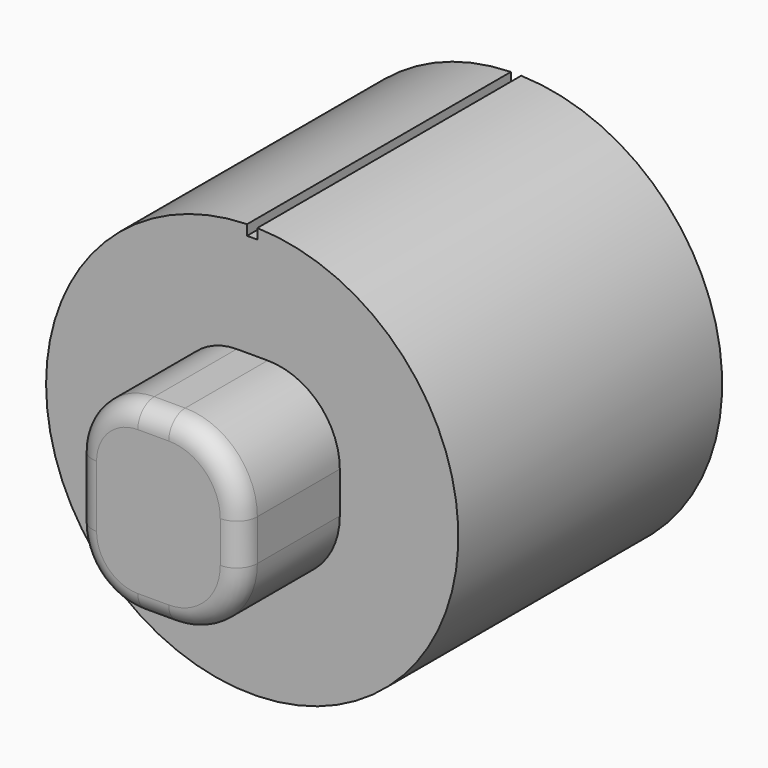
from build123d import *

# Parameters (mm, degrees)
F1_DEPTH = 6
F2_R     = 1
F3_R     = 10
F4_DEPTH = 16
F6_DEPTH = 25


with BuildPart() as f1:
    # F0 (on Front) → F1 (new body)
    with BuildSketch(Plane.XZ):
        with BuildLine():
            Line((0.9983844832, 7.6002832444), (-0.5016155168, 7.6002832444))
            ThreePointArc((-0.5016155168, 7.6002832444), (-2.6229358604, 6.7216035879), (-3.5016155168, 4.6002832444))
            Line((-3.5016155168, 4.6002832444), (-3.5016155168, 1.6002832444))
            ThreePointArc((-3.5016155168, 1.6002832444), (-2.6229358604, -0.5210370992), (-0.5016155168, -1.3997167556))
            Line((-0.5016155168, -1.3997167556), (0.9983844832, -1.3997167556))
            ThreePointArc((0.9983844832, -1.3997167556), (3.4732582173, -0.3745904898), (4.4983844832, 2.1002832444))
            Line((4.4983844832, 2.1002832444), (4.4983844832, 4.1002832444))
            ThreePointArc((4.4983844832, 4.1002832444), (3.4732582173, 6.5751569785), (0.9983844832, 7.6002832444))
        make_face()
    extrude(amount=F1_DEPTH)

    # F2
    f2_edges = [f1.edges().sort_by_distance(p)[0] for p in [
        (3.473258, -6, 6.575157),
        (0.248384, -6, 7.600283),
        (-2.622936, -6, 6.721604),
        (-3.501616, -6, 3.100283),
        (-2.622936, -6, -0.521037),
        (0.248384, -6, -1.399717),
        (3.473258, -6, -0.37459),
        (4.498384, -6, 3.100283),
    ]]
    fillet(f2_edges, radius=F2_R)

    # F3 (on face) → F4 (join)
    with BuildSketch(Plane(origin=(0, 0, 0), x_dir=(-1, 0, 0), z_dir=(0, 1, 0))):
        with Locations((-0.2483844832, 3.1002832444)):
            Circle(F3_R)
        with BuildLine():
            Line((3.5016155168, 4.6002832444), (3.5016155168, 3.1002832444))
            Line((3.5016155168, 3.1002832444), (3.5016155168, 1.6002832444))
            ThreePointArc((3.5016155168, 1.6002832444), (2.6229358604, -0.5210370992), (0.5016155168, -1.3997167556))
            Line((0.5016155168, -1.3997167556), (-0.2483844832, -1.3997167556))
            Line((-0.2483844832, -1.3997167556), (-0.9983844832, -1.3997167556))
            ThreePointArc((-0.9983844832, -1.3997167556), (-3.4732582173, -0.3745904898), (-4.4983844832, 2.1002832444))
            Line((-4.4983844832, 2.1002832444), (-4.4983844832, 3.1002832444))
            Line((-4.4983844832, 3.1002832444), (-4.4983844832, 4.1002832444))
            ThreePointArc((-4.4983844832, 4.1002832444), (-3.4732582173, 6.5751569785), (-0.9983844832, 7.6002832444))
            Line((-0.9983844832, 7.6002832444), (-0.2483844832, 7.6002832444))
            Line((-0.2483844832, 7.6002832444), (0.5016155168, 7.6002832444))
            ThreePointArc((0.5016155168, 7.6002832444), (2.6229358604, 6.7216035879), (3.5016155168, 4.6002832444))
        make_face(mode=Mode.SUBTRACT)
        with Locations((-0.2483844832, 3.1002832444)):
            Circle(F3_R)
        with BuildLine():
            Line((3.5016155168, 4.6002832444), (3.5016155168, 3.1002832444))
            Line((3.5016155168, 3.1002832444), (3.5016155168, 1.6002832444))
            ThreePointArc((3.5016155168, 1.6002832444), (2.6229358604, -0.5210370992), (0.5016155168, -1.3997167556))
            Line((0.5016155168, -1.3997167556), (-0.2483844832, -1.3997167556))
            Line((-0.2483844832, -1.3997167556), (-0.9983844832, -1.3997167556))
            ThreePointArc((-0.9983844832, -1.3997167556), (-3.4732582173, -0.3745904898), (-4.4983844832, 2.1002832444))
            Line((-4.4983844832, 2.1002832444), (-4.4983844832, 3.1002832444))
            Line((-4.4983844832, 3.1002832444), (-4.4983844832, 4.1002832444))
            ThreePointArc((-4.4983844832, 4.1002832444), (-3.4732582173, 6.5751569785), (-0.9983844832, 7.6002832444))
            Line((-0.9983844832, 7.6002832444), (-0.2483844832, 7.6002832444))
            Line((-0.2483844832, 7.6002832444), (0.5016155168, 7.6002832444))
            ThreePointArc((0.5016155168, 7.6002832444), (2.6229358604, 6.7216035879), (3.5016155168, 4.6002832444))
        make_face(mode=Mode.SUBTRACT)
        with BuildLine():
            Line((-0.2483844832, -1.3997167556), (-0.2483844832, 3.1002832444))
            Line((-0.2483844832, 3.1002832444), (-4.4983844832, 3.1002832444))
            Line((-4.4983844832, 3.1002832444), (-4.4983844832, 2.1002832444))
            ThreePointArc((-4.4983844832, 2.1002832444), (-3.4732582173, -0.3745904898), (-0.9983844832, -1.3997167556))
            Line((-0.9983844832, -1.3997167556), (-0.2483844832, -1.3997167556))
        make_face()
        with BuildLine():
            Line((-4.4983844832, 3.1002832444), (-0.2483844832, 3.1002832444))
            Line((-0.2483844832, 3.1002832444), (-0.2483844832, 7.6002832444))
            Line((-0.2483844832, 7.6002832444), (-0.9983844832, 7.6002832444))
            ThreePointArc((-0.9983844832, 7.6002832444), (-3.4732582173, 6.5751569785), (-4.4983844832, 4.1002832444))
            Line((-4.4983844832, 4.1002832444), (-4.4983844832, 3.1002832444))
        make_face()
        with BuildLine():
            Line((3.5016155168, 1.6002832444), (3.5016155168, 3.1002832444))
            Line((3.5016155168, 3.1002832444), (-0.2483844832, 3.1002832444))
            Line((-0.2483844832, 3.1002832444), (-0.2483844832, -1.3997167556))
            Line((-0.2483844832, -1.3997167556), (0.5016155168, -1.3997167556))
            ThreePointArc((0.5016155168, -1.3997167556), (2.6229358604, -0.5210370992), (3.5016155168, 1.6002832444))
        make_face()
        with BuildLine():
            Line((-0.2483844832, 3.1002832444), (3.5016155168, 3.1002832444))
            Line((3.5016155168, 3.1002832444), (3.5016155168, 4.6002832444))
            ThreePointArc((3.5016155168, 4.6002832444), (2.6229358604, 6.7216035879), (0.5016155168, 7.6002832444))
            Line((0.5016155168, 7.6002832444), (-0.2483844832, 7.6002832444))
            Line((-0.2483844832, 7.6002832444), (-0.2483844832, 3.1002832444))
        make_face()
    extrude(amount=F4_DEPTH)

    # F5 (on face) → F6 (cut)
    with BuildSketch(Plane.XZ):
        with BuildLine():
            Line((-0.0016155168, 12.6002832444), (0.2483844832, 12.6002832444))
            Line((0.2483844832, 12.6002832444), (0.2483844832, 13.1002832444))
            ThreePointArc((0.2483844832, 13.1002832444), (0.1233747149, 13.0995018417), (-0.0016155168, 13.0971577559))
            Line((-0.0016155168, 13.0971577559), (-0.0016155168, 12.6002832444))
        make_face()
        with BuildLine():
            Line((0.2483844832, 13.1002832444), (0.2483844832, 12.6002832444))
            Line((0.2483844832, 12.6002832444), (0.4983844832, 12.6002832444))
            Line((0.4983844832, 12.6002832444), (0.4983844832, 13.0971577559))
            ThreePointArc((0.4983844832, 13.0971577559), (0.3733942515, 13.0995018417), (0.2483844832, 13.1002832444))
        make_face()
    extrude(amount=-F6_DEPTH, mode=Mode.SUBTRACT)


solid = f1.part
